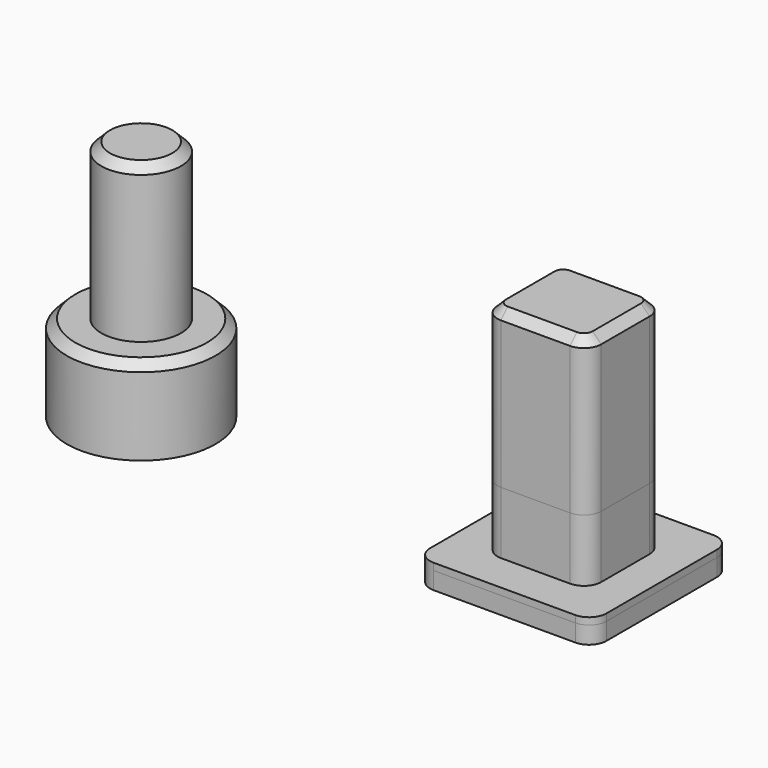
from build123d import *

# Parameters (mm, degrees)
F2_SIZE   = 0.5
F3_W      = 6
F3_H      = 5.5
F3_W_2    = 2.2
F3_H_2    = 2.2
F4_DEPTH  = 14
F3_W_3    = 10.2
F3_H_3    = 10
F5_DEPTH  = 1
F6_R      = 1
F7_SIZE   = 0.5
F8_DEPTH  = 4
F9_DEPTH  = 4
F10_DEPTH = 3.6


with BuildPart() as f1:
    # F0 (on Front) → F1 (revolve)
    with BuildSketch(Plane.XZ):
        Polygon((-4.3, 0), (0, 0), (0, 14), (-2.3, 14), (-2.3, 5), (-4.3, 5), align=None)
    revolve(axis=Axis((0, 0, 7), (0, 0, -1)))

    # F2
    f2_edges = [f1.edges().sort_by_distance(p)[0] for p in [
        (4.3, 0, 5),
        (2.3, 0, 14),
    ]]
    chamfer(f2_edges, length=F2_SIZE)


with BuildPart() as f4:
    # F3 (on Top) → F4 (new body, through all)
    with BuildSketch(Plane.XY):
        with Locations((25, 0)):
            Rectangle(F3_W, F3_H)
        with Locations((25, 0)):
            Rectangle(F3_W_2, F3_H_2, mode=Mode.SUBTRACT)
        with Locations((25, 0)):
            Rectangle(F3_W_2, F3_H_2)
    extrude(amount=F4_DEPTH)

    # F3 (on Top) → F5 (join)
    with BuildSketch(Plane.XY):
        with Locations((25, 0)):
            Rectangle(F3_W_3, F3_H_3)
        with Locations((25, 0)):
            Rectangle(F3_W, F3_H, mode=Mode.SUBTRACT)
    extrude(amount=F5_DEPTH)

    # F6
    f6_edges = [f4.edges().sort_by_distance(p)[0] for p in [
        (22, -2.75, 7.5),
        (28, -2.75, 7.5),
        (28, 2.75, 7.5),
        (22, 2.75, 7.5),
        (30.1, -5, 0.5),
        (19.9, -5, 0.5),
        (30.1, 5, 0.5),
        (19.9, 5, 0.5),
    ]]
    fillet(f6_edges, radius=F6_R)

    # F7
    f7_edges = [f4.edges().sort_by_distance(p)[0] for p in [
        (25, 2.75, 14),
        (27.707107, 2.457107, 14),
        (22.292893, 2.457107, 14),
        (28, 0, 14),
        (22, 0, 14),
        (27.707107, -2.457107, 14),
        (22.292893, -2.457107, 14),
        (25, -2.75, 14),
    ]]
    chamfer(f7_edges, length=F7_SIZE)

    # F3 (on Top) → F8 (cut)
    with BuildSketch(Plane.XY):
        with Locations((25, 0)):
            Rectangle(F3_W_2, F3_H_2)
    extrude(amount=F8_DEPTH, mode=Mode.SUBTRACT)

    # F9 (add, through all): a face of the model
    f9_faces = [f4.faces().sort_by_distance(p)[0] for p in [
        (25, 4.8571574293, 1),
    ]]
    extrude(f9_faces, amount=F9_DEPTH)

    # F10 (cut): a face of the model
    f10_faces = [f4.faces().sort_by_distance(p)[0] for p in [
        (25, 4.8571574293, 5),
    ]]
    extrude(f10_faces, amount=-F10_DEPTH, mode=Mode.SUBTRACT)


solid = Compound([f1.part, f4.part])
